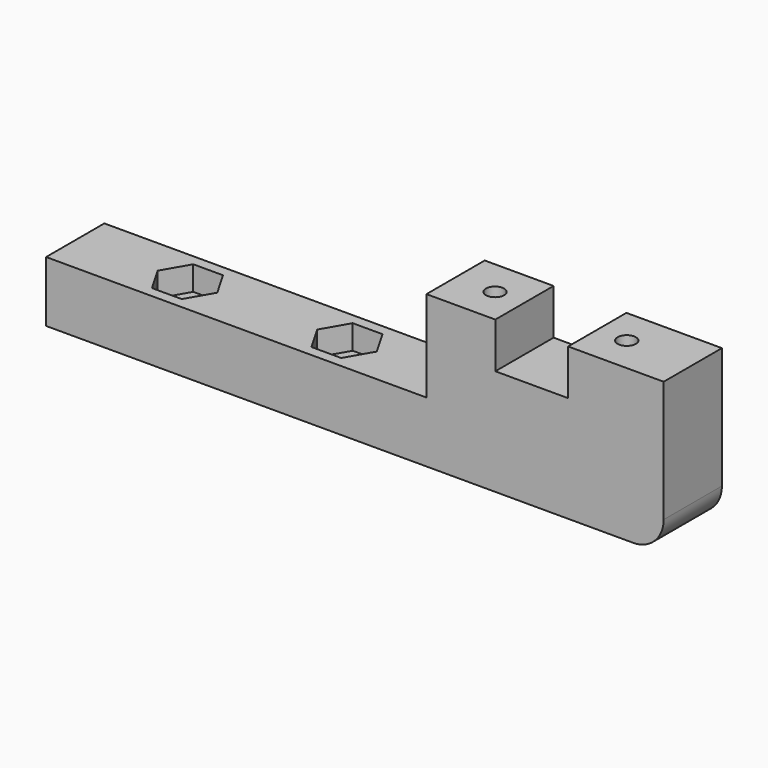
from build123d import *

# Parameters (mm, degrees)
PAD015_DEPTH    = 12
SKETCH032_R     = 1.5
POCKET013_DEPTH = 25.001
SKETCH034_R     = 2.55
POCKET014_DEPTH = 25.001
POCKET015_DEPTH = 15
POCKET016_DEPTH = 4
FILLET_R        = 5


with BuildPart() as part:
    # Sketch029 → Pad015 (new body)
    with BuildSketch(Plane.XZ):
        Polygon((77.4690929999, 0), (77.4690929999, -25), (-24.29069, -25), (-24.29069, -15), (38.3828349999, -15), (38.3828349999, 0), (49.7345464999, 0), (49.7345464999, -7.5), (61.7345464999, -7.5), (61.7345464999, 0), align=None)
    extrude(amount=PAD015_DEPTH)

    # Sketch032 → Pocket013 (cut, through all)
    with BuildSketch(Plane.XY):
        with Locations((44.8828349999, -6)):
            Circle(SKETCH032_R)
        with Locations((66.586258, -6)):
            Circle(SKETCH032_R)
    extrude(amount=-POCKET013_DEPTH, mode=Mode.SUBTRACT)

    # Sketch034 → Pocket014 (cut, through all)
    with BuildSketch(Plane.XY):
        with Locations((-5.7879446208, -6)):
            Circle(SKETCH034_R)
        with Locations((20.4831280675, -6)):
            Circle(SKETCH034_R)
    extrude(amount=-POCKET014_DEPTH, mode=Mode.SUBTRACT)

    # Sketch035 (on Face3 of Pocket014) → Pocket015 (cut)
    with BuildSketch(Plane(origin=(0, 0, -25), x_dir=(1, 0, 0), z_dir=(0, 0, -1))):
        Polygon((46.586018294, 8.95), (43.1796517057, 8.95), (41.4764684116, 6), (43.1796517057, 3.05), (46.586018294, 3.05), (48.2892015881, 6), align=None)
        Polygon((68.2894412941, 8.95), (64.8830747059, 8.95), (63.1798914118, 6), (64.8830747059, 3.05), (68.2894412941, 3.05), (69.9926245882, 6), align=None)
    extrude(amount=-POCKET015_DEPTH, mode=Mode.SUBTRACT)

    # Sketch036 (on Face23 of Pocket015) → Pocket016 (cut)
    with BuildSketch(Plane(origin=(0, 0, -15), x_dir=(-1, 0, 0), z_dir=(0, 0, 1))):
        Polygon((-22.9368667116, 10.25), (-25.3906053556, 6), (-22.9368667116, 1.75), (-18.0293894234, 1.75), (-15.5756507794, 6), (-18.0293894234, 10.25), align=None)
        Polygon((3.3342059768, 10.25), (0.8804673327, 6), (3.3342059768, 1.75), (8.2416832649, 1.75), (10.6954219089, 6), (8.2416832649, 10.25), align=None)
    extrude(amount=-POCKET016_DEPTH, mode=Mode.SUBTRACT)

    # Fillet
    fillet_edges = [part.edges().sort_by_distance(p)[0] for p in [
        (77.469093, -6, -25),
    ]]
    fillet(fillet_edges, radius=FILLET_R)


with BuildPart() as part_1:
    # Body005 placement: moved
    add(part.part.moved(Location((0, 29, -22))))


solid = part_1.part
